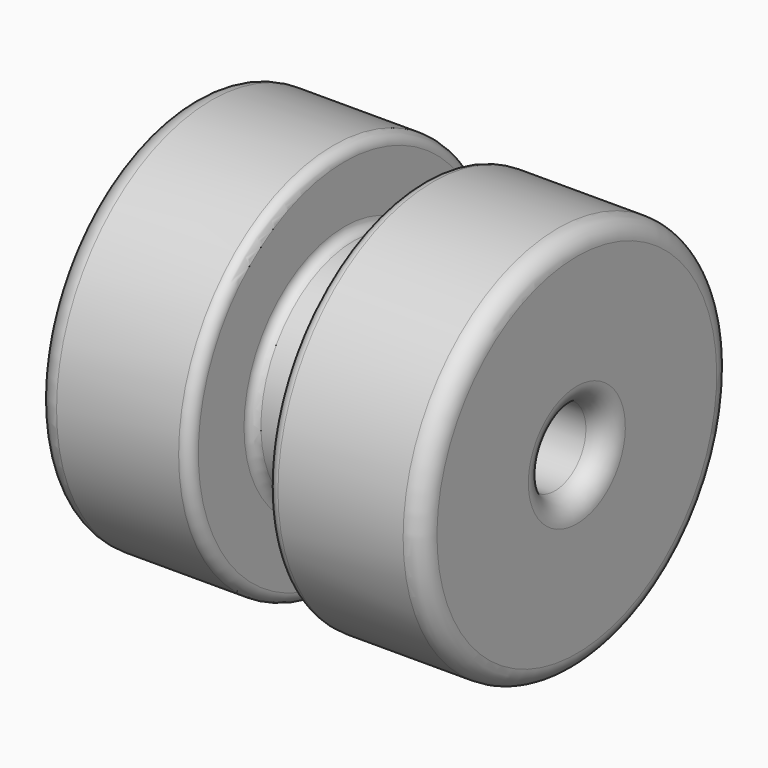
from build123d import *


with BuildPart() as part:
    # Sketch → Revolve (revolve)
    with BuildSketch(Plane.XZ):
        with BuildLine():
            Line((2.5, 0.782843), (2.5, 2.257157))
            ThreePointArc((2.5, 2.257157), (2.428873, 2.428873), (2.257157, 2.5))
            Line((2.257157, 2.5), (0.641421, 2.5))
            ThreePointArc((0.641421, 2.5), (0.541421, 2.458579), (0.5, 2.358579))
            Line((0.5, 2.358579), (0.5, 1.621421))
            ThreePointArc((0.378579, 1.5), (0.464437, 1.535563), (0.5, 1.621421))
            Line((0.378579, 1.5), (-0.378579, 1.5))
            ThreePointArc((-0.5, 1.621421), (-0.464437, 1.535563), (-0.378579, 1.5))
            Line((-0.5, 1.621421), (-0.5, 2.358579))
            ThreePointArc((-0.5, 2.358579), (-0.541421, 2.458579), (-0.641421, 2.5))
            Line((-0.641421, 2.5), (-2.217157, 2.5))
            ThreePointArc((-2.217157, 2.5), (-2.417157, 2.417157), (-2.5, 2.217157))
            Line((-2.5, 2.217157), (-2.5, 0.742843))
            ThreePointArc((-2.5, 0.742843), (-2.428873, 0.571127), (-2.257157, 0.5))
            Line((-2.257157, 0.5), (2.217157, 0.5))
            ThreePointArc((2.217157, 0.5), (2.417157, 0.582843), (2.5, 0.782843))
        make_face()
    revolve(axis=Axis((0, 0, 0), (1, 0, 0)))


solid = part.part
